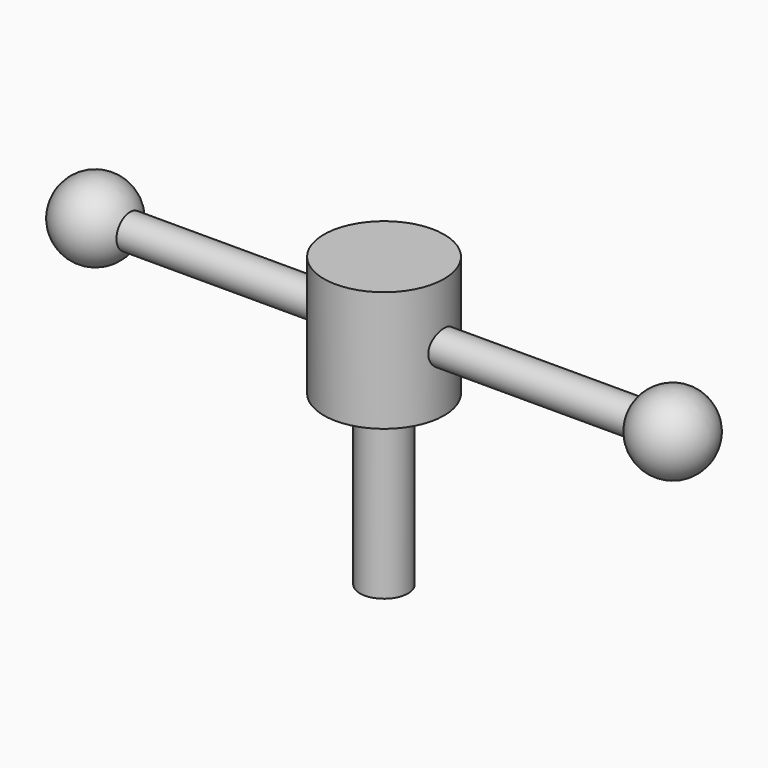
from build123d import *

# Parameters (mm, degrees)
F0_R     = 15.875
F1_DEPTH = 31.75
F2_R     = 6.35
F3_DEPTH = 44.45
F4_R     = 4.445
F5_DEPTH = 76.2
F6_R     = 4.445
F7_DEPTH = 76.2


with BuildPart() as f1:
    # F0 (on Top) → F1 (new body)
    with BuildSketch(Plane.XY):
        Circle(F0_R)
    extrude(amount=F1_DEPTH)

    # F2 (on Top) → F3 (join)
    with BuildSketch(Plane.XY):
        Circle(F2_R)
    extrude(amount=-F3_DEPTH)

    # F4 (on Right) → F5 (join)
    with BuildSketch(Plane.YZ):
        with Locations((0, 15.875)):
            Circle(F4_R)
    extrude(amount=F5_DEPTH)

    # F6 (on Right) → F7 (join)
    with BuildSketch(Plane.YZ):
        with Locations((0, 15.875)):
            Circle(F6_R)
    extrude(amount=-F7_DEPTH)

    # F8 (on Front) → F9 (revolve)
    with BuildSketch(Plane.XZ):
        with BuildLine():
            Line((-86.36, 15.875), (-66.04, 15.875))
            ThreePointArc((-66.04, 15.875), (-76.2, 26.035), (-86.36, 15.875))
        make_face()
        with BuildLine():
            ThreePointArc((86.36, 15.875), (76.2, 26.035), (66.04, 15.875))
            Line((66.04, 15.875), (86.36, 15.875))
        make_face()
    revolve(axis=Axis((0, 0, 15.875), (1, 0, 0)))


solid = f1.part
